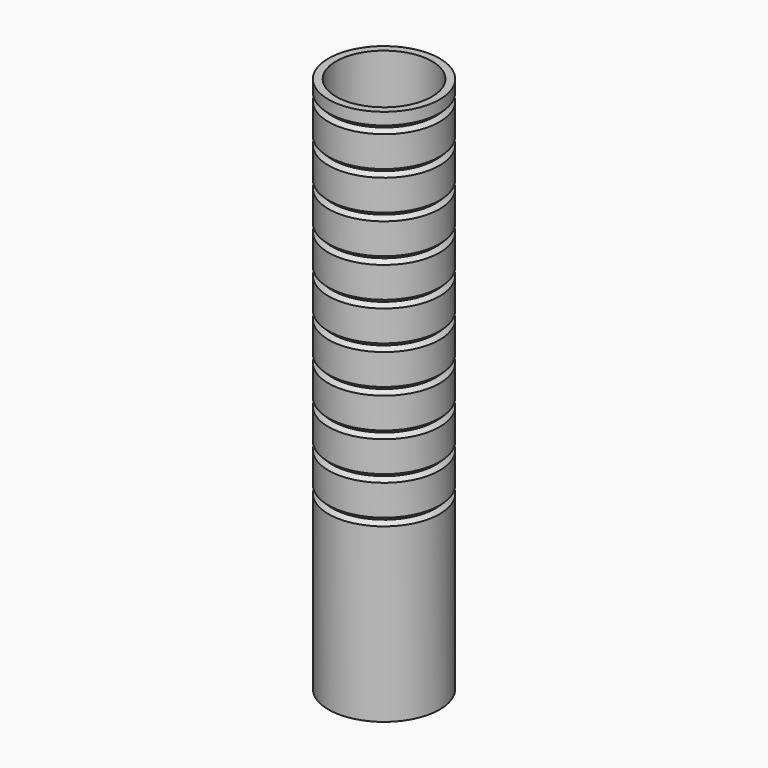
from build123d import *


with BuildPart() as f2:
    # F0 (on Front) → F2 (revolve)
    with BuildSketch(Plane.XZ):
        Polygon((18.415, 84.724767), (15.875, 84.724767), (15.875, -93.075233), (18.415, -93.075233), (18.415, -36.09307), (17.145, -34.82307), (18.415, -33.55307), (18.415, -23.39307), (17.145, -22.12307), (18.415, -20.85307), (18.415, -10.69307), (17.145, -9.42307), (18.415, -8.15307), (18.415, 2.00693), (17.145, 3.27693), (18.415, 4.54693), (18.415, 14.70693), (17.145, 15.97693), (18.415, 17.24693), (18.415, 27.40693), (17.145, 28.67693), (18.415, 29.94693), (18.415, 40.10693), (17.145, 41.37693), (18.415, 42.64693), (18.415, 52.80693), (17.145, 54.07693), (18.415, 55.34693), (18.415, 65.50693), (17.145, 66.77693), (18.415, 68.04693), (18.415, 78.20693), (17.145, 79.47693), (18.415, 80.74693), align=None)
    revolve(axis=Axis((0, 0, -4.614733), (0, 0, -1)))


solid = f2.part
